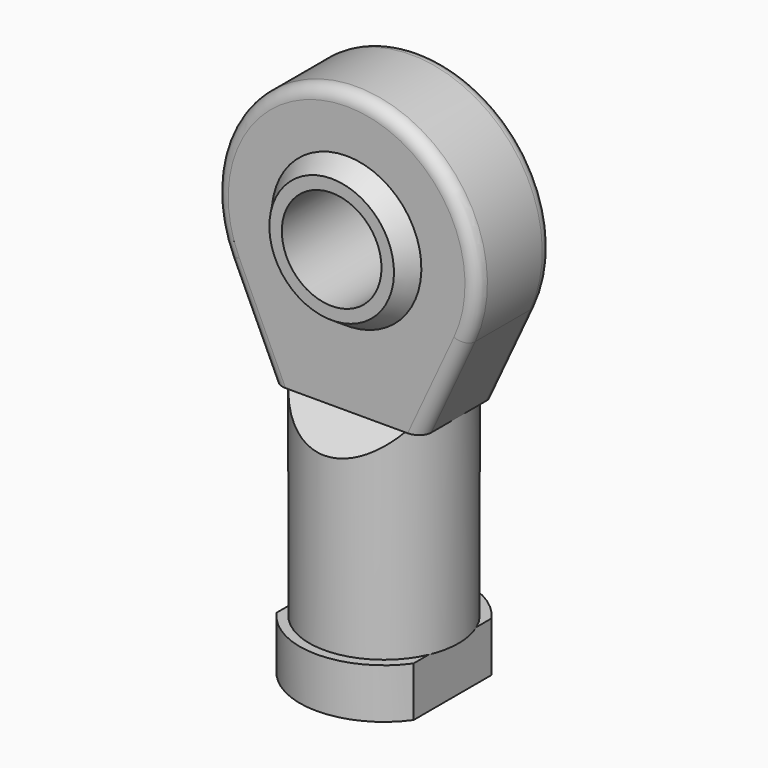
from build123d import *

# Parameters (mm, degrees)
F0_R      = 12
F1_DEPTH  = 64
F2_R      = 13.5
F3_DEPTH  = 8
F5_DEPTH  = 7.5
F7_DEPTH  = 12.5
F10_R     = 8
F11_DEPTH = 24.001
F12_R     = 2
F13_R     = 8
F14_DEPTH = 28
F16_DEPTH = 8


with BuildPart() as f1:
    # F0 (on Top) → F1 (new body)
    with BuildSketch(Plane.XY):
        Circle(F0_R)
    extrude(amount=F1_DEPTH)

    # F2 (on Top) → F3 (join)
    with BuildSketch(Plane.XY):
        Circle(F2_R)
    extrude(amount=F3_DEPTH)

    # F4 (on Front) → F5 (join, symmetric)
    with BuildSketch(Plane.XZ):
        with BuildLine():
            Line((12, 40), (19.042305, 55.146153))
            ThreePointArc((19.042305, 55.146153), (0, 85), (-19.042305, 55.146153))
            Line((-19.042305, 55.146153), (-12, 40))
            Line((-12, 40), (12, 40))
        make_face()
    extrude(amount=F5_DEPTH, both=True)

    # F6 (on Right) → F7 (cut, symmetric)
    with BuildSketch(Plane.YZ):
        Polygon((-7.5, 40), (-7.5, 64), (-12, 64), (-12, 35.5), align=None)
        Polygon((12, 64), (7.5, 64), (7.5, 40), (12, 35.5), align=None)
    extrude(amount=F7_DEPTH, both=True, mode=Mode.SUBTRACT)

    # F8 (on Right) → F9 (revolve)
    with BuildSketch(Plane.YZ):
        Polygon((-10.5, 74), (-10.5, 64), (10.5, 64), (10.5, 74.892095), (7.5, 76), (-7.5, 76), align=None)
    revolve(axis=Axis((0, 1.309478, 64), (0, 1, 0)))

    # F10 (on face) → F11 (cut, through all)
    with BuildSketch(Plane.XZ.offset(10.5)):
        with Locations((0, 64)):
            Circle(F10_R)
    extrude(amount=-F11_DEPTH, mode=Mode.SUBTRACT)

    # F12
    f12_edges = [f1.edges().sort_by_distance(p)[0] for p in [
        (15.521153, -7.5, 47.573076),
        (15.521153, 7.5, 47.573076),
    ]]
    fillet(f12_edges, radius=F12_R)

    # F13 (on face) → F14 (cut)
    with BuildSketch(Plane(origin=(0, 0, 0), x_dir=(1, 0, 0), z_dir=(0, 0, -1))):
        Circle(F13_R)
    extrude(amount=-F14_DEPTH, mode=Mode.SUBTRACT)

    # F15 (on face) → F16 (cut, through all)
    with BuildSketch(Plane(origin=(0, 0, 0), x_dir=(1, 0, 0), z_dir=(0, 0, -1))):
        with BuildLine():
            Line((-11, -7.826238), (-11, 7.826238))
            ThreePointArc((-11, 7.826238), (-13.5, 0), (-11, -7.826238))
        make_face()
        with BuildLine():
            Line((11, 7.826238), (11, -7.826238))
            ThreePointArc((11, -7.826238), (13.5, 0), (11, 7.826238))
        make_face()
    extrude(amount=-F16_DEPTH, mode=Mode.SUBTRACT)


solid = f1.part
